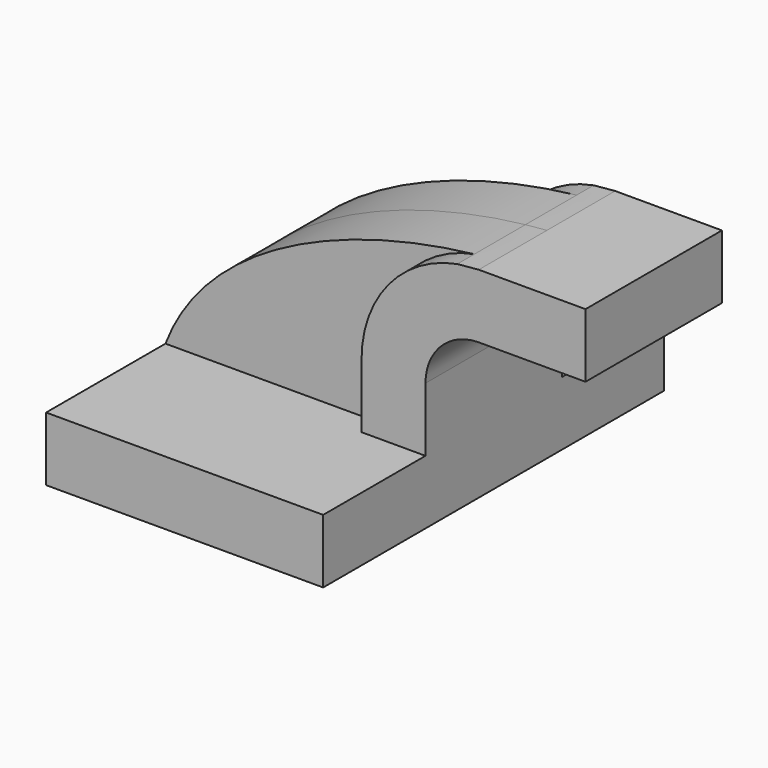
from build123d import *

# Parameters (mm, degrees)
F1_DEPTH = 63.5
F0_W     = 26.390754
F0_H     = 19.05
F2_DEPTH = 25.4
F3_DEPTH = 19.05


with BuildPart() as f1:
    # F0 (on Front) → F1 (new body, symmetric)
    with BuildSketch(Plane.XZ):
        Polygon((22.225, 9.525), (-41.275, 9.525), (-41.275, -9.525), (41.275, -9.525), (41.275, 9.525), align=None)
    extrude(amount=F1_DEPTH, both=True)

    # F0 (on Front) → F2 (join, symmetric)
    with BuildSketch(Plane.XZ):
        with BuildLine():
            Line((22.225, 28.575), (22.225, 9.525))
            Line((22.225, 9.525), (41.275, 9.525))
            Line((41.275, 9.525), (41.275, 28.575))
            ThreePointArc((41.275, 28.575), (45.92468, 39.80032), (57.15, 44.45))
            Line((57.15, 44.45), (62.56327, 44.45))
            Line((62.56327, 44.45), (62.56327, 63.5))
            Line((62.56327, 63.5), (57.15, 63.5))
            add(Edge.make_bspline(
                [(50.745571, 62.907767), (52.916409, 63.149474), (55.054315, 63.3464), (57.15, 63.5)],
                knots=[105.739127, 105.739127, 105.739127, 105.739127, 112.253202, 112.253202, 112.253202, 112.253202], degree=3))
            ThreePointArc((50.745571, 62.907767), (30.285243, 50.891821), (22.225, 28.575))
        make_face()
        with Locations((75.758647, 53.975)):
            Rectangle(F0_W, F0_H)
    extrude(amount=F2_DEPTH, both=True)

    # F0 (on Front) → F3 (join, symmetric)
    with BuildSketch(Plane.XZ):
        with BuildLine():
            add(Edge.make_bspline(
                [(-41.275, 9.525), (-28.407678, 43.261675), (15.507642, 58.984288), (50.745571, 62.907767)],
                knots=[0, 0, 0, 0, 105.739127, 105.739127, 105.739127, 105.739127], degree=3))
            Line((-41.275, 9.525), (22.225, 9.525))
            Line((22.225, 9.525), (22.225, 28.575))
            ThreePointArc((22.225, 28.575), (30.285243, 50.891821), (50.745571, 62.907767))
        make_face()
    extrude(amount=F3_DEPTH, both=True)


solid = f1.part
